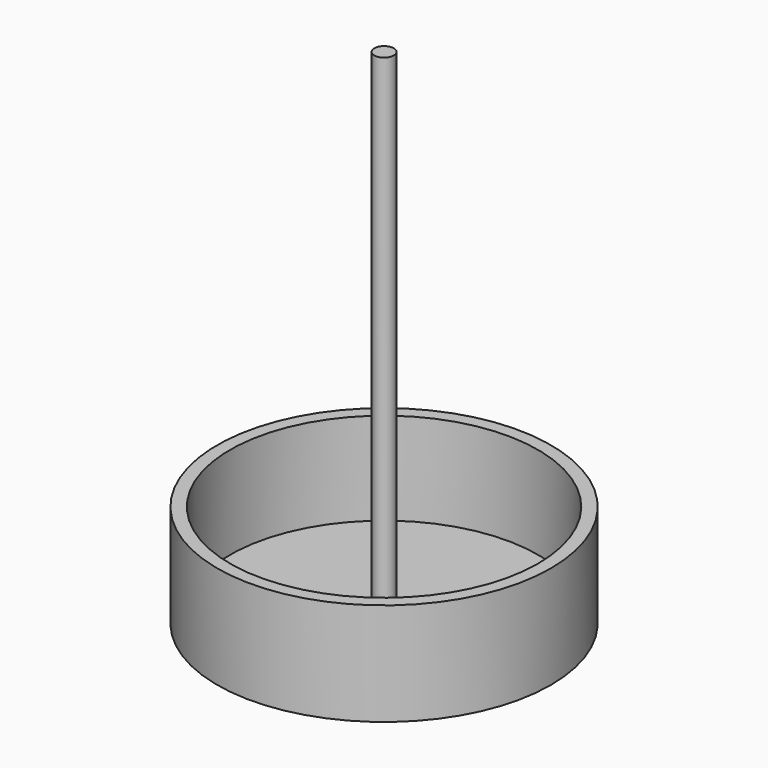
from build123d import *

# Parameters (mm, degrees)
F0_R     = 38.1
F0_R_2   = 2.413
F1_DEPTH = 2.54
F0_R_3   = 41.275
F2_DEPTH = 25.4
F3_R     = 2.413
F4_DEPTH = 124.46


with BuildPart() as f1:
    # F0 (on Top) → F1 (new body)
    with BuildSketch(Plane.XY):
        with Locations((-94.074033, 5.041726)):
            Circle(F0_R)
        with Locations((-94.074033, 5.041726)):
            Circle(F0_R_2, mode=Mode.SUBTRACT)
    extrude(amount=F1_DEPTH)

    # F0 (on Top) → F2 (join)
    with BuildSketch(Plane.XY):
        with Locations((-94.074033, 5.041726)):
            Circle(F0_R_3)
        with Locations((-94.074033, 5.041726)):
            Circle(F0_R, mode=Mode.SUBTRACT)
    extrude(amount=F2_DEPTH)

    # F3 (on face) → F4 (join)
    with BuildSketch(Plane.XY):
        with Locations((-94.074033, 5.041726)):
            Circle(F3_R)
    extrude(amount=F4_DEPTH)


solid = f1.part
